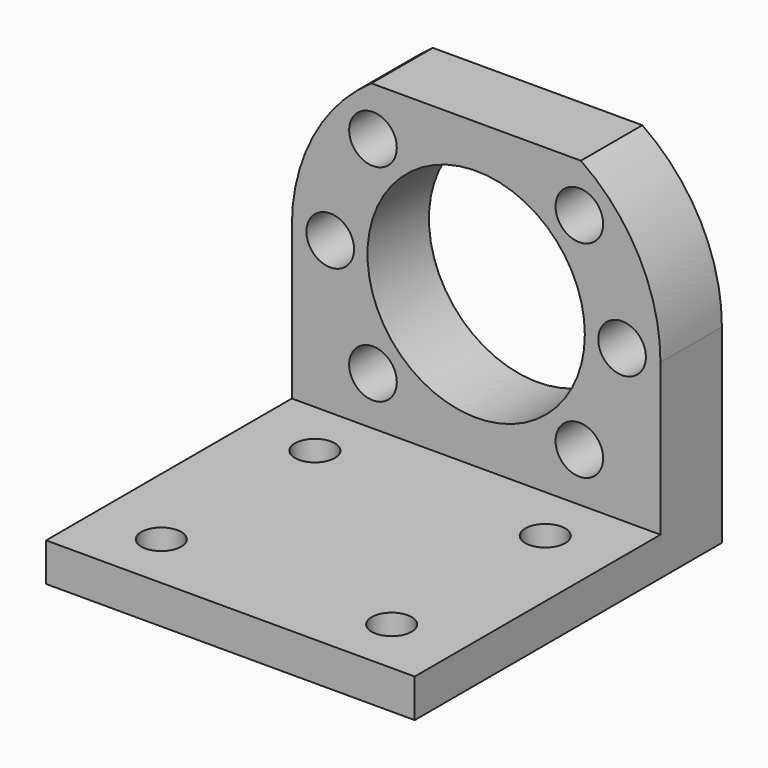
from build123d import *

# Parameters (mm, degrees)
F0_R     = 3.1
F0_R_2   = 14.15
F1_DEPTH = 10
F2_W     = 48
F2_H     = 5
F3_DEPTH = 40
F4_R     = 2.6
F5_DEPTH = 5


with BuildPart() as f1:
    # F0 (on Front) → F1 (new body)
    with BuildSketch(Plane.XZ):
        with BuildLine():
            Line((13.63589, 19.75), (-13.63589, 19.75))
            ThreePointArc((-13.63589, 19.75), (-21.251604, 11.152099), (-24, 0))
            Line((-24, 0), (-24, -24.75))
            Line((-24, -24.75), (24, -24.75))
            Line((24, -24.75), (24, 0))
            ThreePointArc((24, 0), (21.251604, 11.152099), (13.63589, 19.75))
        make_face()
        with Locations((-13.435029, -13.435029)):
            Circle(F0_R, mode=Mode.SUBTRACT)
        with Locations((13.435029, -13.435029)):
            Circle(F0_R, mode=Mode.SUBTRACT)
        with Locations((-19, 0)):
            Circle(F0_R, mode=Mode.SUBTRACT)
        with Locations((-13.435029, 13.435029)):
            Circle(F0_R, mode=Mode.SUBTRACT)
        Circle(F0_R_2, mode=Mode.SUBTRACT)
        with Locations((19, 0)):
            Circle(F0_R, mode=Mode.SUBTRACT)
        with Locations((13.435029, 13.435029)):
            Circle(F0_R, mode=Mode.SUBTRACT)
    extrude(amount=F1_DEPTH)

    # F2 (on face) → F3 (join)
    with BuildSketch(Plane.XZ.offset(10)):
        with Locations((0, -22.25)):
            Rectangle(F2_W, F2_H)
    extrude(amount=F3_DEPTH)

    # F4 (on face) → F5 (cut, through all)
    with BuildSketch(Plane.XY.offset(-19.75)):
        with Locations((-15, -17.5)):
            Circle(F4_R)
        with Locations((-15, -42.5)):
            Circle(F4_R)
        with Locations((15, -42.5)):
            Circle(F4_R)
        with Locations((15, -17.5)):
            Circle(F4_R)
    extrude(amount=-F5_DEPTH, mode=Mode.SUBTRACT)


solid = f1.part
